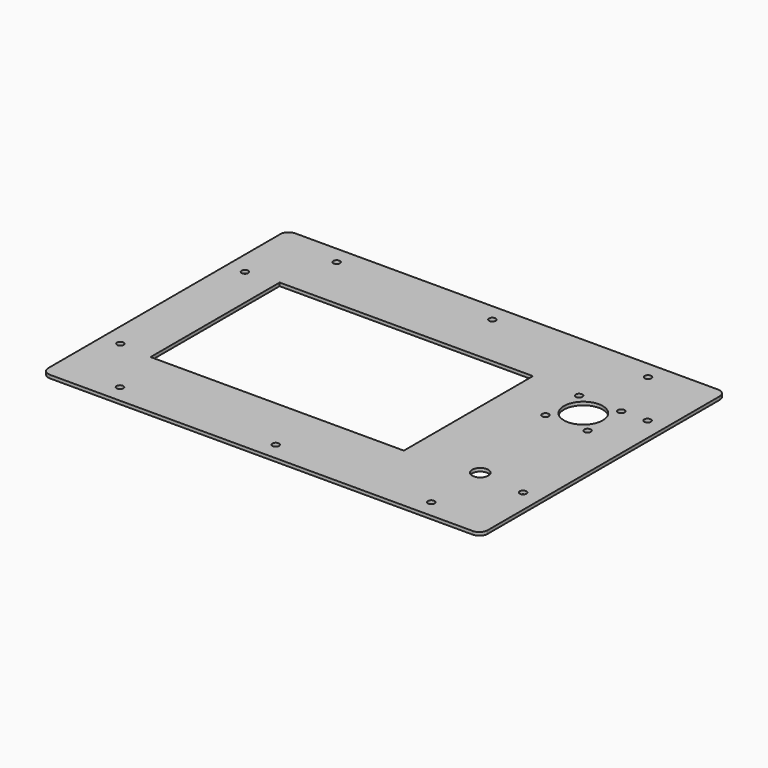
from build123d import *

# Parameters (mm, degrees)
F0_W     = 215
F0_H     = 150
F0_R     = 1.63195
F0_R_2   = 3.96875
F0_W_2   = 124
F0_H_2   = 79
F0_R_3   = 9.525
F1_DEPTH = 1.5875
F2_R     = 4


with BuildPart() as f1:
    # F0 (on Top) → F1 (new body)
    with BuildSketch(Plane.XY):
        Rectangle(F0_W, F0_H)
        with Locations((-76.2, -66.294)):
            Circle(F0_R, mode=Mode.SUBTRACT)
        with Locations((-98.552, -38.1)):
            Circle(F0_R, mode=Mode.SUBTRACT)
        with Locations((0, -66.294)):
            Circle(F0_R, mode=Mode.SUBTRACT)
        with Locations((76.2, -66.294)):
            Circle(F0_R, mode=Mode.SUBTRACT)
        with Locations((98.552, -38.1)):
            Circle(F0_R, mode=Mode.SUBTRACT)
        with Locations((75.542, -35.53125)):
            Circle(F0_R_2, mode=Mode.SUBTRACT)
        with Locations((-20.677, 0)):
            Rectangle(F0_W_2, F0_H_2, mode=Mode.SUBTRACT)
        with Locations((-98.552, 38.1)):
            Circle(F0_R, mode=Mode.SUBTRACT)
        with Locations((-76.2, 66.294)):
            Circle(F0_R, mode=Mode.SUBTRACT)
        with Locations((65.232, 17.24805)):
            Circle(F0_R, mode=Mode.SUBTRACT)
        with Locations((85.852, 17.24805)):
            Circle(F0_R, mode=Mode.SUBTRACT)
        with Locations((75.542, 27.55805)):
            Circle(F0_R_3, mode=Mode.SUBTRACT)
        with Locations((0, 66.294)):
            Circle(F0_R, mode=Mode.SUBTRACT)
        with Locations((65.232, 37.86805)):
            Circle(F0_R, mode=Mode.SUBTRACT)
        with Locations((85.852, 37.86805)):
            Circle(F0_R, mode=Mode.SUBTRACT)
        with Locations((98.552, 38.1)):
            Circle(F0_R, mode=Mode.SUBTRACT)
        with Locations((76.2, 66.294)):
            Circle(F0_R, mode=Mode.SUBTRACT)
    extrude(amount=F1_DEPTH)

    # F2
    f2_edges = [f1.edges().sort_by_distance(p)[0] for p in [
        (-107.5, 75, 0.79375),
        (-107.5, -75, 0.79375),
        (107.5, -75, 0.79375),
        (107.5, 75, 0.79375),
    ]]
    fillet(f2_edges, radius=F2_R)


solid = f1.part
